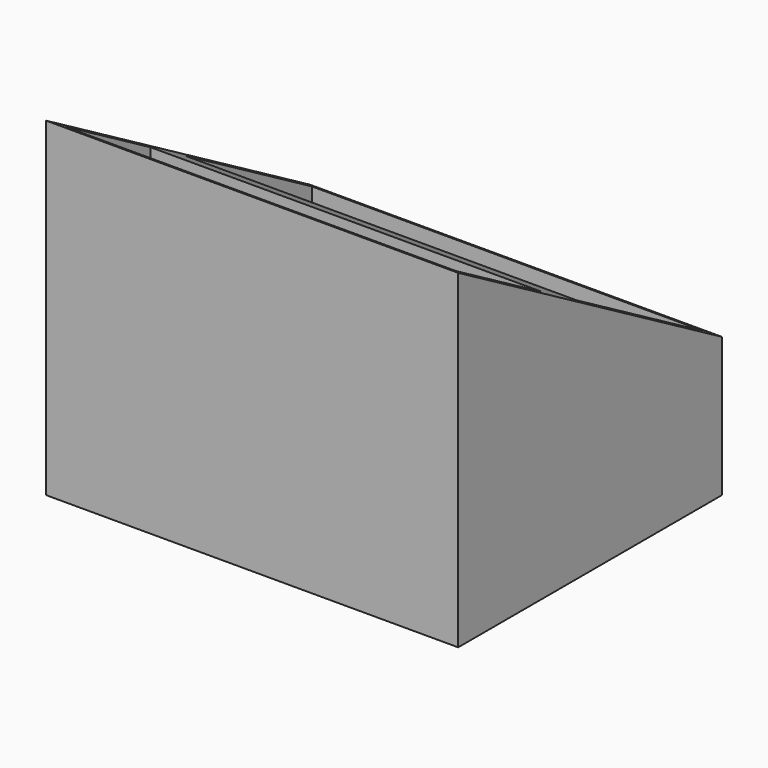
from build123d import *

# Parameters (mm, degrees)
F0_W     = 100
F0_H     = 50
F0_H_2   = 30
F1_DEPTH = 80
F2_W     = 95
F2_H     = 38.437796
F2_H_2   = 26.119551
F3_DEPTH = 77
F5_DEPTH = 250


with BuildPart() as f1:
    # F0 (on Top) → F1 (new body)
    with BuildSketch(Plane.XY):
        with Locations((-4.275286, 7.339517)):
            Rectangle(F0_W, F0_H)
        with Locations((-4.275286, -32.660483)):
            Rectangle(F0_W, F0_H_2)
    extrude(amount=F1_DEPTH)

    # F2 (on face) → F3 (cut)
    with BuildSketch(Plane.XY.offset(80)):
        with Locations((-4.275286, 10.620619)):
            Rectangle(F2_W, F2_H)
        with Locations((-4.275286, -32.100707)):
            Rectangle(F2_W, F2_H_2)
    extrude(amount=-F3_DEPTH, mode=Mode.SUBTRACT)

    # F4 (on face) → F5 (cut)
    with BuildSketch(Plane(origin=(-54.275286, 0, 0), x_dir=(0, -1, 0), z_dir=(-1, 0, 0))):
        Polygon((-32.339517, 33.811978), (47.660483, 80), (-32.339517, 80), align=None)
    extrude(amount=-F5_DEPTH, mode=Mode.SUBTRACT)


solid = f1.part
